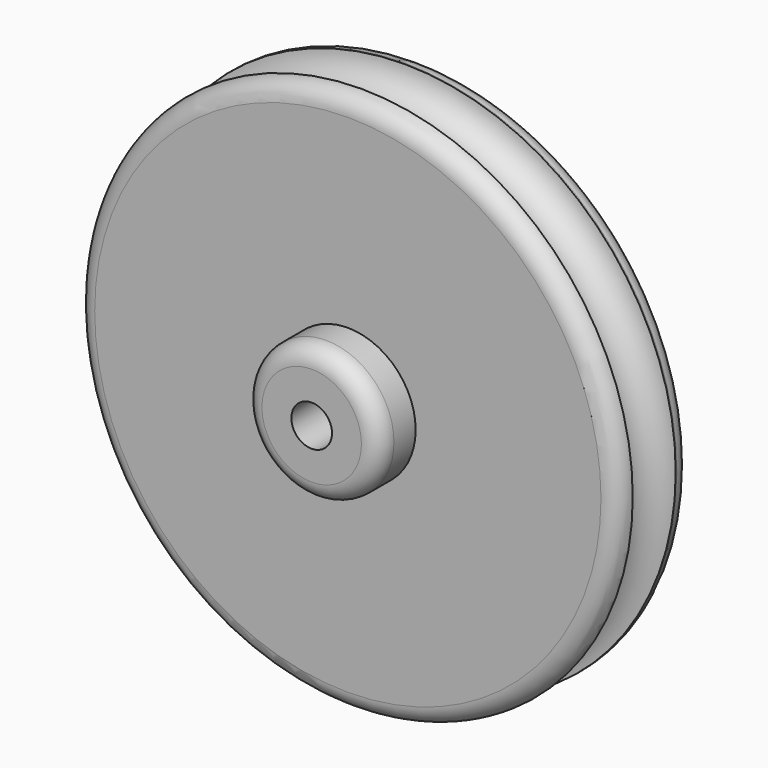
from build123d import *

# Parameters (mm, degrees)
F0_R     = 76.2
F1_DEPTH = 25.4
F2_R     = 19.05
F3_DEPTH = 12.7
F5_D     = 11.43
F6_R     = 5.08
F7_R     = 7.545148


with BuildPart() as f1:
    # F0 (on Front) → F1 (new body)
    with BuildSketch(Plane.XZ):
        Circle(F0_R)
    extrude(amount=F1_DEPTH)

    # F2 (on face) → F3 (join)
    with BuildSketch(Plane.XZ.offset(25.4)):
        Circle(F2_R)
    extrude(amount=F3_DEPTH)

    # F5 (through all)
    with Locations(Plane.XZ.offset(38.1)):
        with Locations((0, 0)):
            Hole(F5_D / 2)

    # F6
    f6_edges = [f1.edges().sort_by_distance(p)[0] for p in [
        (-76.2, -25.4, 0),
        (76.2, -12.7, 0),
        (-76.2, 0, 0),
        (-19.05, -38.1, 0),
    ]]
    fillet(f6_edges, radius=F6_R)

    # F7 (on Right) → F8 (revolve, cut)
    with BuildSketch(Plane.YZ):
        with Locations((-13.046818, 76.394618)):
            Circle(F7_R)
    revolve(axis=Axis((0, 0, 0), (0, 1, 0)), mode=Mode.SUBTRACT)


solid = f1.part
